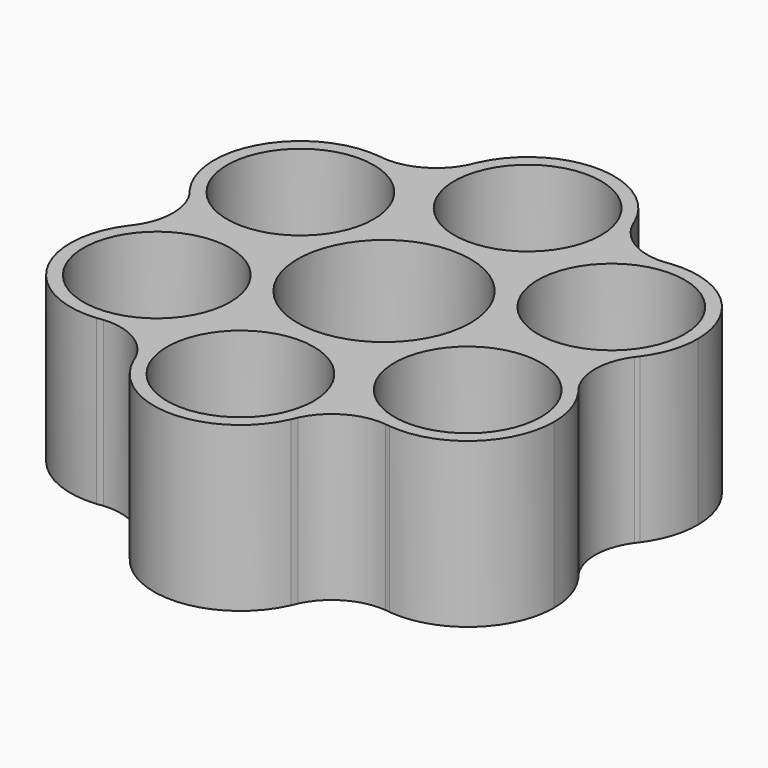
from build123d import *

# Parameters (mm, degrees)
F0_R     = 11.2
F0_R_2   = 13.2
F1_DEPTH = 25


with BuildPart() as f1:
    # F0 (on Top) → F1 (new body)
    with BuildSketch(Plane.XY):
        with BuildLine():
            ThreePointArc((12.350464, 32.069691), (12.213927, 32.387489), (12.089473, 32.710211))
            ThreePointArc((12.089473, 32.710211), (0.070503, 40.610528), (-12.032173, 32.839049))
            ThreePointArc((-12.032173, 32.839049), (-12.201602, 32.390803), (-12.394215, 31.952018))
            ThreePointArc((-12.394215, 31.952018), (-2.306118, 14.413723), (13.2, 27.410716))
            ThreePointArc((13.2, 27.410716), (12.985879, 29.778613), (12.350464, 32.069691))
        make_face()
        with Locations((0, 27.410716)):
            Circle(F0_R, mode=Mode.SUBTRACT)
        with BuildLine():
            ThreePointArc((12.350464, 32.069691), (12.224164, 32.391661), (12.089473, 32.710211))
            ThreePointArc((12.089473, 32.710211), (12.213927, 32.387489), (12.350464, 32.069691))
        make_face()
        with BuildLine():
            ThreePointArc((-12.394215, 31.952018), (-12.201602, 32.390803), (-12.032173, 32.839049))
            ThreePointArc((-12.032173, 32.839049), (-12.221245, 32.39882), (-12.394215, 31.952018))
        make_face()
        with BuildLine():
            ThreePointArc((21.474152, 26.709714), (16.061235, 27.941016), (12.350464, 32.069691))
            ThreePointArc((12.350464, 32.069691), (12.985879, 29.778613), (13.2, 27.410716))
            ThreePointArc((13.2, 27.410716), (-2.306118, 14.413723), (-12.394215, 31.952018))
            ThreePointArc((-12.394215, 31.952018), (-16.167012, 27.879945), (-21.597935, 26.730661))
            ThreePointArc((-21.597935, 26.730661), (-13.676224, 22.248957), (-10.538376, 13.705358))
            ThreePointArc((-10.538376, 13.705358), (-19.237037, 1.296573), (-33.868367, 5.242304))
            ThreePointArc((-33.868367, 5.242304), (-32.228247, -0.061071), (-33.948399, -5.33903))
            ThreePointArc((-33.948399, -5.33903), (-19.296096, -1.275308), (-10.538376, -13.705358))
            ThreePointArc((-10.538376, -13.705358), (-13.635709, -22.201011), (-21.474152, -26.709714))
            ThreePointArc((-21.474152, -26.709714), (-16.061235, -27.941016), (-12.350464, -32.069691))
            ThreePointArc((-12.350464, -32.069691), (-2.367898, -14.424837), (13.2, -27.410716))
            ThreePointArc((13.2, -27.410716), (12.996993, -29.716834), (12.394215, -31.952018))
            ThreePointArc((12.394215, -31.952018), (16.167012, -27.879945), (21.597935, -26.730661))
            ThreePointArc((21.597935, -26.730661), (12.275585, -7.159794), (33.868367, -5.242304))
            ThreePointArc((33.868367, -5.242304), (32.228247, 0.061071), (33.948399, 5.33903))
            ThreePointArc((33.948399, 5.33903), (12.338356, 7.051071), (21.474152, 26.709714))
        make_face()
        Circle(F0_R_2, mode=Mode.SUBTRACT)
        with BuildLine():
            ThreePointArc((22.423364, 26.839692), (21.950457, 26.762299), (21.474152, 26.709714))
            ThreePointArc((21.474152, 26.709714), (12.338356, 7.051071), (33.948399, 5.33903))
            ThreePointArc((33.948399, 5.33903), (34.155352, 5.616173), (34.37261, 5.885315))
            ThreePointArc((34.37261, 5.885315), (36.280543, 9.590257), (36.938376, 13.705358))
            ThreePointArc((36.938376, 13.705358), (32.595064, 23.493058), (22.423364, 26.839692))
        make_face()
        with Locations((23.738376, 13.705358)):
            Circle(F0_R, mode=Mode.SUBTRACT)
        with BuildLine():
            ThreePointArc((22.423364, 26.839692), (21.947579, 26.783318), (21.474152, 26.709714))
            ThreePointArc((21.474152, 26.709714), (21.950457, 26.762299), (22.423364, 26.839692))
        make_face()
        with BuildLine():
            ThreePointArc((-22.283138, 26.824896), (-21.941425, 26.771316), (-21.597935, 26.730661))
            ThreePointArc((-21.597935, 26.730661), (-21.939919, 26.782267), (-22.283138, 26.824896))
        make_face()
        with BuildLine():
            ThreePointArc((-10.538376, 13.705358), (-13.676224, 22.248957), (-21.597935, 26.730661))
            ThreePointArc((-21.597935, 26.730661), (-21.941425, 26.771316), (-22.283138, 26.824896))
            ThreePointArc((-22.283138, 26.824896), (-35.134497, 20.366321), (-34.455538, 5.999357))
            ThreePointArc((-34.455538, 5.999357), (-34.152059, 5.628504), (-33.868367, 5.242304))
            ThreePointArc((-33.868367, 5.242304), (-19.237037, 1.296573), (-10.538376, 13.705358))
        make_face()
        with Locations((-23.738376, 13.705358)):
            Circle(F0_R, mode=Mode.SUBTRACT)
        with BuildLine():
            ThreePointArc((34.37261, 5.885315), (34.155352, 5.616173), (33.948399, 5.33903))
            ThreePointArc((33.948399, 5.33903), (34.164083, 5.609394), (34.37261, 5.885315))
        make_face()
        with BuildLine():
            ThreePointArc((34.455538, -5.999357), (34.152059, -5.628504), (33.868367, -5.242304))
            ThreePointArc((33.868367, -5.242304), (12.275585, -7.159794), (21.597935, -26.730661))
            ThreePointArc((21.597935, -26.730661), (21.941425, -26.771316), (22.283138, -26.824896))
            ThreePointArc((22.283138, -26.824896), (32.542661, -23.540223), (36.938376, -13.705358))
            ThreePointArc((36.938376, -13.705358), (36.302343, -9.657305), (34.455538, -5.999357))
        make_face()
        with Locations((23.738376, -13.705358)):
            Circle(F0_R, mode=Mode.SUBTRACT)
        with BuildLine():
            ThreePointArc((34.455538, -5.999357), (34.168823, -5.615502), (33.868367, -5.242304))
            ThreePointArc((33.868367, -5.242304), (34.152059, -5.628504), (34.455538, -5.999357))
        make_face()
        with BuildLine():
            ThreePointArc((-34.455538, 5.999357), (-34.168823, 5.615502), (-33.868367, 5.242304))
            ThreePointArc((-33.868367, 5.242304), (-34.152059, 5.628504), (-34.455538, 5.999357))
        make_face()
        with BuildLine():
            ThreePointArc((22.283138, -26.824896), (21.941425, -26.771316), (21.597935, -26.730661))
            ThreePointArc((21.597935, -26.730661), (21.939919, -26.782267), (22.283138, -26.824896))
        make_face()
        with BuildLine():
            ThreePointArc((-34.37261, -5.885315), (-34.155352, -5.616173), (-33.948399, -5.33903))
            ThreePointArc((-33.948399, -5.33903), (-34.164083, -5.609394), (-34.37261, -5.885315))
        make_face()
        with BuildLine():
            ThreePointArc((-10.538376, -13.705358), (-19.296096, -1.275308), (-33.948399, -5.33903))
            ThreePointArc((-33.948399, -5.33903), (-34.155352, -5.616173), (-34.37261, -5.885315))
            ThreePointArc((-34.37261, -5.885315), (-35.205, -20.244207), (-22.423364, -26.839692))
            ThreePointArc((-22.423364, -26.839692), (-21.950457, -26.762299), (-21.474152, -26.709714))
            ThreePointArc((-21.474152, -26.709714), (-13.635709, -22.201011), (-10.538376, -13.705358))
        make_face()
        with Locations((-23.738376, -13.705358)):
            Circle(F0_R, mode=Mode.SUBTRACT)
        with BuildLine():
            ThreePointArc((12.032173, -32.839049), (12.201602, -32.390803), (12.394215, -31.952018))
            ThreePointArc((12.394215, -31.952018), (12.996993, -29.716834), (13.2, -27.410716))
            ThreePointArc((13.2, -27.410716), (-2.367898, -14.424837), (-12.350464, -32.069691))
            ThreePointArc((-12.350464, -32.069691), (-12.213927, -32.387489), (-12.089473, -32.710211))
            ThreePointArc((-12.089473, -32.710211), (-0.070503, -40.610528), (12.032173, -32.839049))
        make_face()
        with Locations((0, -27.410716)):
            Circle(F0_R, mode=Mode.SUBTRACT)
        with BuildLine():
            ThreePointArc((12.032173, -32.839049), (12.221245, -32.39882), (12.394215, -31.952018))
            ThreePointArc((12.394215, -31.952018), (12.201602, -32.390803), (12.032173, -32.839049))
        make_face()
        with BuildLine():
            ThreePointArc((-22.423364, -26.839692), (-21.947579, -26.783318), (-21.474152, -26.709714))
            ThreePointArc((-21.474152, -26.709714), (-21.950457, -26.762299), (-22.423364, -26.839692))
        make_face()
        with BuildLine():
            ThreePointArc((-12.350464, -32.069691), (-12.224164, -32.391661), (-12.089473, -32.710211))
            ThreePointArc((-12.089473, -32.710211), (-12.213927, -32.387489), (-12.350464, -32.069691))
        make_face()
    extrude(amount=F1_DEPTH)


solid = f1.part
